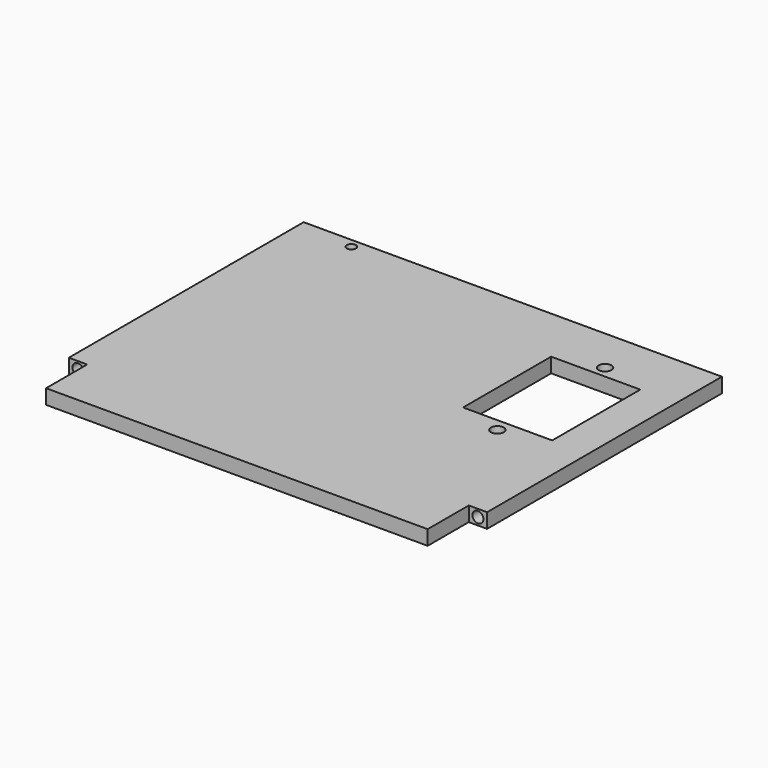
from build123d import *

# Parameters (mm, degrees)
SKETCH207_W     = 104
SKETCH207_H     = 14
SKETCH207_W_2   = 114
SKETCH207_H_2   = 80
SKETCH207_R     = 1.75
SKETCH207_R_2   = 1.25
SKETCH207_W_3   = 24.3
SKETCH207_H_3   = 30
PAD103_DEPTH    = 4
SKETCH208_R     = 1.5
POCKET120_DEPTH = 11


with BuildPart() as part:
    # Sketch207 → Pad103 (new body)
    with BuildSketch(Plane.XY):
        with Locations((57, 7)):
            Rectangle(SKETCH207_W, SKETCH207_H)
        with Locations((57, 54)):
            Rectangle(SKETCH207_W_2, SKETCH207_H_2)
        with Locations((92, 45)):
            Circle(SKETCH207_R, mode=Mode.SUBTRACT)
        with Locations((92, 81.7)):
            Circle(SKETCH207_R, mode=Mode.SUBTRACT)
        with Locations((15, 91.5)):
            Circle(SKETCH207_R_2, mode=Mode.SUBTRACT)
        with Locations((92, 63.5)):
            Rectangle(SKETCH207_W_3, SKETCH207_H_3, mode=Mode.SUBTRACT)
    extrude(amount=PAD103_DEPTH)

    # Sketch208 (on Face2 of Pad103) → Pocket120 (cut)
    with BuildSketch(Plane.XZ.offset(-14)):
        with Locations((2.5, 2)):
            Circle(SKETCH208_R)
        with Locations((111.5, 2)):
            Circle(SKETCH208_R)
    extrude(amount=-POCKET120_DEPTH, mode=Mode.SUBTRACT)


solid = part.part
